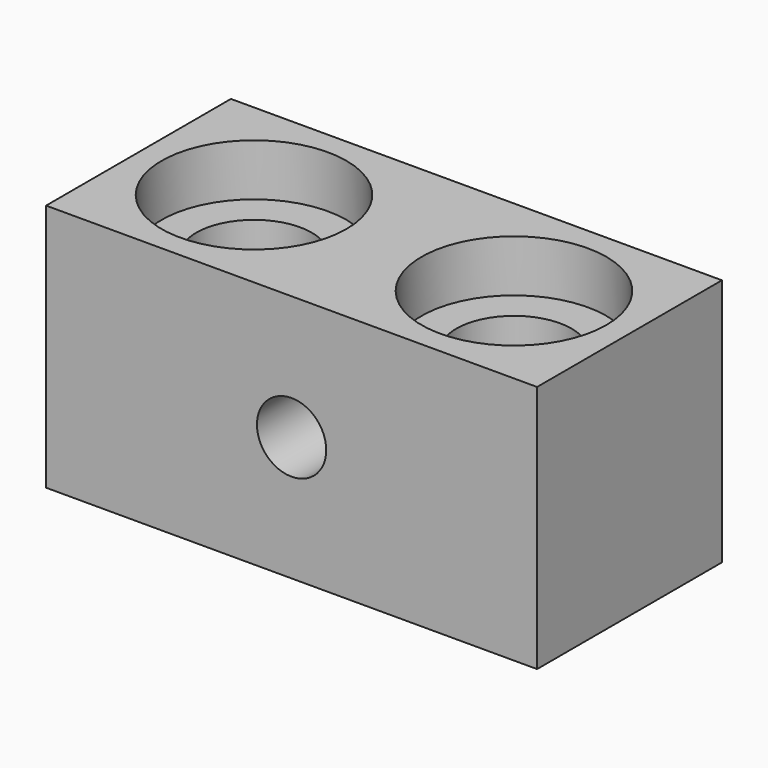
from build123d import *

# Parameters (mm, degrees)
F0_W     = 85
F0_H     = 43
F0_R     = 6
F1_DEPTH = 40
F2_R     = 10
F3_DEPTH = 43.001
F4_R     = 16
F4_R_2   = 10
F5_DEPTH = 9
F6_R     = 16
F6_R_2   = 10
F7_DEPTH = 9


with BuildPart() as f1:
    # F0 (on Front) → F1 (new body)
    with BuildSketch(Plane.XZ):
        with Locations((42.5, 21.5)):
            Rectangle(F0_W, F0_H)
        with Locations((42.5, 21.5)):
            Circle(F0_R, mode=Mode.SUBTRACT)
    extrude(amount=F1_DEPTH)

    # F2 (on face) → F3 (cut, through all)
    with BuildSketch(Plane(origin=(0, 0, 0), x_dir=(1, 0, 0), z_dir=(0, 0, -1))):
        with Locations((20, 20)):
            Circle(F2_R)
        with Locations((65, 20)):
            Circle(F2_R)
    extrude(amount=-F3_DEPTH, mode=Mode.SUBTRACT)

    # F4 (on face) → F5 (cut)
    with BuildSketch(Plane(origin=(0, 0, 0), x_dir=(1, 0, 0), z_dir=(0, 0, -1))):
        with Locations((20, 20)):
            Circle(F4_R)
        with Locations((20, 20)):
            Circle(F4_R_2, mode=Mode.SUBTRACT)
        with Locations((65, 20)):
            Circle(F4_R)
        with Locations((65, 20)):
            Circle(F4_R_2, mode=Mode.SUBTRACT)
    extrude(amount=-F5_DEPTH, mode=Mode.SUBTRACT)

    # F6 (on face) → F7 (cut)
    with BuildSketch(Plane.XY.offset(43)):
        with Locations((20, -20)):
            Circle(F6_R)
        with Locations((20, -20)):
            Circle(F6_R_2, mode=Mode.SUBTRACT)
        with Locations((65, -20)):
            Circle(F6_R)
        with Locations((65, -20)):
            Circle(F6_R_2, mode=Mode.SUBTRACT)
    extrude(amount=-F7_DEPTH, mode=Mode.SUBTRACT)


solid = f1.part
